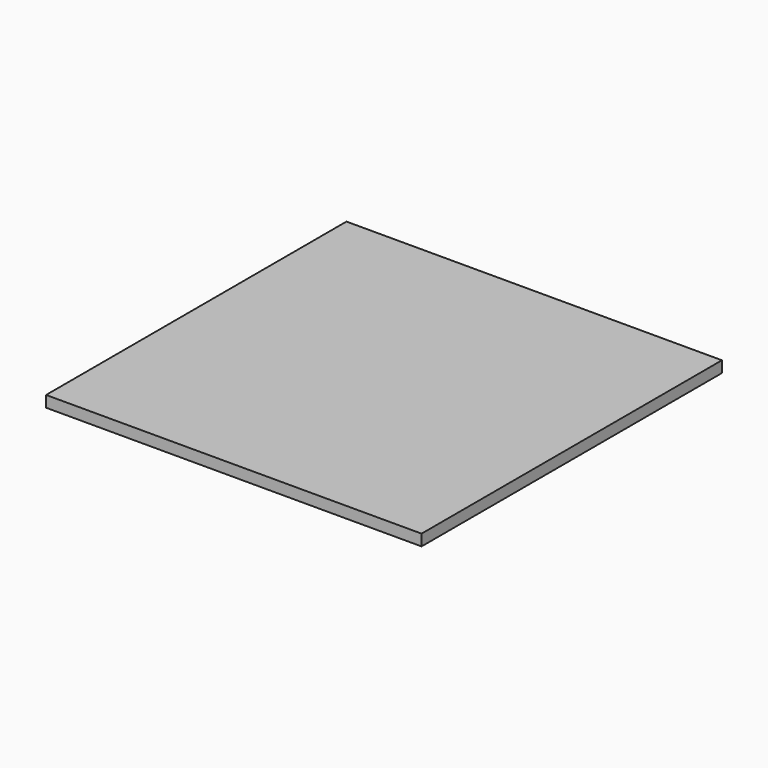
from build123d import *

# Parameters (mm, degrees)
F0_W     = 200
F0_H     = 200
F1_DEPTH = 3
F2_R     = 15
F2_R_2   = 12
F3_DEPTH = 0.2


with BuildPart() as f1:
    # F0 (on Top) → F1 (new body, symmetric)
    with BuildSketch(Plane.XY):
        Rectangle(F0_W, F0_H)
    extrude(amount=F1_DEPTH, both=True)

    # F2 (on face) → F3 (cut)
    with BuildSketch(Plane(origin=(0, 0, -3), x_dir=(1, 0, 0), z_dir=(0, 0, -1))):
        with Locations((-50, 47.312775)):
            Circle(F2_R)
        with Locations((-50, 47.312775)):
            Circle(F2_R_2, mode=Mode.SUBTRACT)
        with Locations((-50, 0.687225)):
            Circle(F2_R)
        with Locations((-50, 0.687225)):
            Circle(F2_R_2, mode=Mode.SUBTRACT)
        with Locations((-50, -47.312775)):
            Circle(F2_R)
        with Locations((-50, -47.312775)):
            Circle(F2_R_2, mode=Mode.SUBTRACT)
        with Locations((50, 47.312775)):
            Circle(F2_R)
        with Locations((50, 47.312775)):
            Circle(F2_R_2, mode=Mode.SUBTRACT)
        with Locations((50, 0.687225)):
            Circle(F2_R)
        with Locations((50, 0.687225)):
            Circle(F2_R_2, mode=Mode.SUBTRACT)
        with Locations((50, -47.312775)):
            Circle(F2_R)
        with Locations((50, -47.312775)):
            Circle(F2_R_2, mode=Mode.SUBTRACT)
    extrude(amount=-F3_DEPTH, mode=Mode.SUBTRACT)


solid = f1.part
